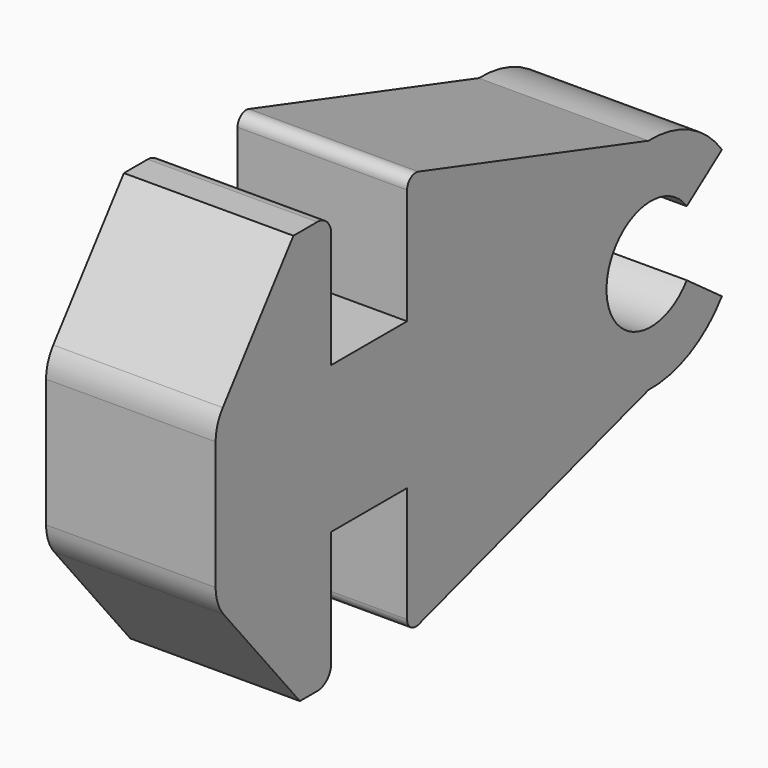
from build123d import *

# Parameters (mm, degrees)
F0_R     = 2.55
F1_DEPTH = 7.8
F2_R     = 0.5
F4_DEPTH = 25


with BuildPart() as f1:
    # F0 (on Right) → F1 (new body)
    with BuildSketch(Plane.YZ):
        with BuildLine():
            Line((-2.326186, 7.823175), (-2.326186, 1.823175))
            Line((-2.326186, 1.823175), (-6.690186, 1.823175))
            Line((-6.690186, 1.823175), (-6.690186, 7.146175))
            ThreePointArc((-6.690186, 7.146175), (-6.9245, 7.71186), (-7.490186, 7.946175))
            Line((-7.490186, 7.946175), (-8.86261, 7.946175))
            Line((-8.86261, 7.946175), (-12.92499, 2.634016))
            ThreePointArc((-12.92499, 2.634016), (-13.23068, 2.06042), (-13.336295, 1.419089))
            Line((-13.336295, 1.419089), (-13.336295, -4.483028))
            ThreePointArc((-13.336295, -4.483028), (-13.217831, -5.161131), (-12.876472, -5.758903))
            Line((-12.876472, -5.758903), (-8.490186, -11.053825))
            Line((-8.490186, -11.053825), (-7.490186, -11.053825))
            ThreePointArc((-7.490186, -11.053825), (-6.9245, -10.819511), (-6.690186, -10.253825))
            Line((-6.690186, -10.253825), (-6.690186, -4.930825))
            Line((-6.690186, -4.930825), (-2.326186, -4.930825))
            Line((-2.326186, -4.930825), (-2.326186, -10.930825))
            Line((-2.326186, -10.930825), (11.55518, -6.601922))
            ThreePointArc((11.55518, -6.601922), (16.743814, -1.552504), (11.552539, 3.494198))
            Line((11.552539, 3.494198), (-2.326186, 7.823175))
        make_face()
        with Locations((11.693814, -1.553825)):
            Circle(F0_R, mode=Mode.SUBTRACT)
    extrude(amount=F1_DEPTH)

    # F2
    f2_edges = [f1.edges().sort_by_distance(p)[0] for p in [
        (3.9, -2.326186, 7.823175),
        (3.9, -2.326186, -10.930825),
    ]]
    fillet(f2_edges, radius=F2_R)

    # F3 (on face) → F4 (cut)
    with BuildSketch(Plane.YZ.offset(7.8)):
        Polygon((19.312905, 3.981768), (11.693814, -1.553825), (19.312905, -7.089419), align=None)
    extrude(amount=-F4_DEPTH, mode=Mode.SUBTRACT)


solid = f1.part
